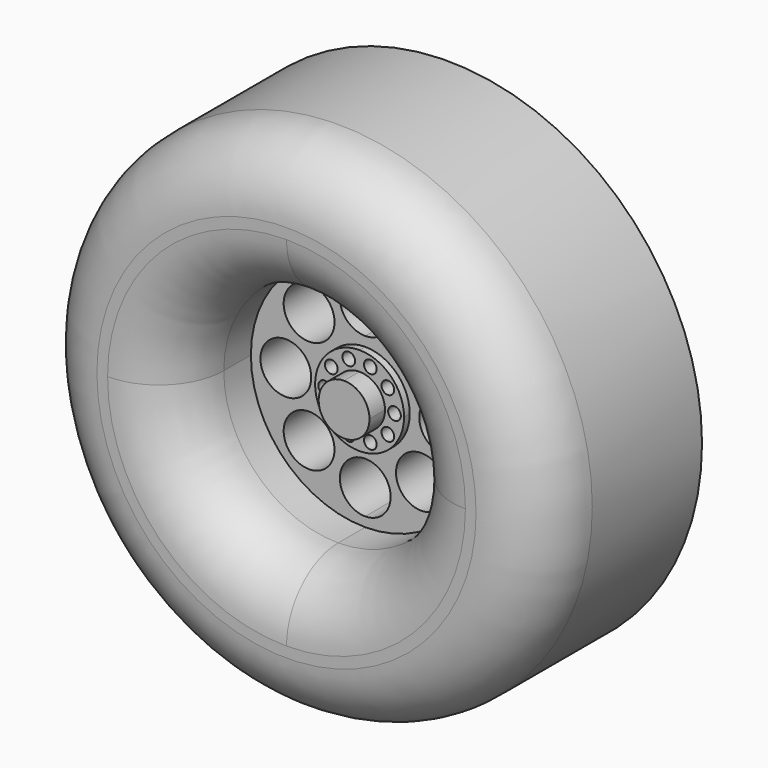
from build123d import *

# Parameters (mm, degrees)
F1_R     = 20
F2_DEPTH = 15.875
F3_DEPTH = 15.875
F1_R_2   = 2
F4_DEPTH = 8.128
F5_DEPTH = 10
F6_DEPTH = 13
F1_R_3   = 0.5
F7_DEPTH = 8.6868
F8_DEPTH = 10.2108
F9_R     = 5.08


with BuildPart() as f2:
    # F1 (on face) → F2 (new body)
    with BuildSketch(Plane.XZ):
        Circle(F1_R)
        with BuildLine():
            ThreePointArc((0, 18), (12.7279220614, 12.7279220614), (18, 0))
            ThreePointArc((18, 0), (12.7279220614, -12.7279220614), (0, -18))
            ThreePointArc((0, -18), (-12.7279220614, -12.7279220614), (-18, 0))
            ThreePointArc((-18, 0), (-12.7279220614, 12.7279220614), (0, 18))
        make_face(mode=Mode.SUBTRACT)
    extrude(amount=F2_DEPTH)

    # F1 (on face) → F3 (join)
    with BuildSketch(Plane.XZ):
        with BuildLine():
            ThreePointArc((0, 9), (6.3639610307, 6.3639610307), (9, 0))
            Line((9, 0), (18, 0))
            ThreePointArc((18, 0), (12.7279220614, 12.7279220614), (0, 18))
            Line((0, 18), (0, 9))
        make_face()
        with BuildLine():
            Line((18, 0), (9, 0))
            ThreePointArc((9, 0), (6.3639610307, -6.3639610307), (0, -9))
            Line((0, -9), (0, -18))
            ThreePointArc((0, -18), (12.7279220614, -12.7279220614), (18, 0))
        make_face()
        with BuildLine():
            ThreePointArc((-9, 0), (-6.3639610307, 6.3639610307), (0, 9))
            Line((0, 9), (0, 18))
            ThreePointArc((0, 18), (-12.7279220614, 12.7279220614), (-18, 0))
            Line((-18, 0), (-9, 0))
        make_face()
        with BuildLine():
            Line((0, -18), (0, -9))
            ThreePointArc((0, -9), (-6.3639610307, -6.3639610307), (-9, 0))
            Line((-9, 0), (-18, 0))
            ThreePointArc((-18, 0), (-12.7279220614, -12.7279220614), (0, -18))
        make_face()
    extrude(amount=F3_DEPTH)

    # F1 (on face) → F4 (join)
    with BuildSketch(Plane.XZ):
        with BuildLine():
            ThreePointArc((-3.5, 0), (-2.4748737342, 2.4748737342), (0, 3.5))
            Line((0, 3.5), (0, 4.25))
            ThreePointArc((0, 4.25), (-2, 6.25), (0, 8.25))
            Line((0, 8.25), (0, 9))
            ThreePointArc((0, 9), (-6.3639610307, 6.3639610307), (-9, 0))
            Line((-9, 0), (-8.25, 0))
            ThreePointArc((-8.25, 0), (-6.25, 2), (-4.25, 0))
            Line((-4.25, 0), (-3.5, 0))
        make_face()
        with Locations((-4.4194173824, 4.4194173824)):
            Circle(F1_R_2, mode=Mode.SUBTRACT)
        with BuildLine():
            ThreePointArc((0, 3.5), (2.4748737342, 2.4748737342), (3.5, 0))
            Line((3.5, 0), (4.25, 0))
            ThreePointArc((4.25, 0), (6.25, 2), (8.25, 0))
            Line((8.25, 0), (9, 0))
            ThreePointArc((9, 0), (6.3639610307, 6.3639610307), (0, 9))
            Line((0, 9), (0, 8.25))
            ThreePointArc((0, 8.25), (1.4142135624, 7.6642135624), (2, 6.25))
            ThreePointArc((2, 6.25), (1.4142135624, 4.8357864376), (0, 4.25))
            Line((0, 4.25), (0, 3.5))
        make_face()
        with Locations((4.4194173824, 4.4194173824)):
            Circle(F1_R_2, mode=Mode.SUBTRACT)
        with BuildLine():
            Line((4.25, 0), (3.5, 0))
            ThreePointArc((3.5, 0), (2.4748737342, -2.4748737342), (0, -3.5))
            Line((0, -3.5), (0, -4.25))
            ThreePointArc((0, -4.25), (1.4142135624, -4.8357864376), (2, -6.25))
            ThreePointArc((2, -6.25), (1.4142135624, -7.6642135624), (0, -8.25))
            Line((0, -8.25), (0, -9))
            ThreePointArc((0, -9), (6.3639610307, -6.3639610307), (9, 0))
            Line((9, 0), (8.25, 0))
            ThreePointArc((8.25, 0), (6.25, -2), (4.25, 0))
        make_face()
        with Locations((4.4194173824, -4.4194173824)):
            Circle(F1_R_2, mode=Mode.SUBTRACT)
        with BuildLine():
            Line((0, -4.25), (0, -3.5))
            ThreePointArc((0, -3.5), (-2.4748737342, -2.4748737342), (-3.5, 0))
            Line((-3.5, 0), (-4.25, 0))
            ThreePointArc((-4.25, 0), (-6.25, -2), (-8.25, 0))
            Line((-8.25, 0), (-9, 0))
            ThreePointArc((-9, 0), (-6.3639610307, -6.3639610307), (0, -9))
            Line((0, -9), (0, -8.25))
            ThreePointArc((0, -8.25), (-2, -6.25), (0, -4.25))
        make_face()
        with Locations((-4.4194173824, -4.4194173824)):
            Circle(F1_R_2, mode=Mode.SUBTRACT)
    extrude(amount=F4_DEPTH)

    # F1 (on face) → F5 (cut)
    with BuildSketch(Plane.XZ):
        with BuildLine():
            Line((0, -4.25), (0, -3.5))
            ThreePointArc((0, -3.5), (-2.4748737342, -2.4748737342), (-3.5, 0))
            Line((-3.5, 0), (-4.25, 0))
            ThreePointArc((-4.25, 0), (-6.25, -2), (-8.25, 0))
            Line((-8.25, 0), (-9, 0))
            ThreePointArc((-9, 0), (-6.3639610307, -6.3639610307), (0, -9))
            Line((0, -9), (0, -8.25))
            ThreePointArc((0, -8.25), (-2, -6.25), (0, -4.25))
        make_face()
        with Locations((-4.4194173824, -4.4194173824)):
            Circle(F1_R_2, mode=Mode.SUBTRACT)
        with BuildLine():
            Line((4.25, 0), (3.5, 0))
            ThreePointArc((3.5, 0), (2.4748737342, -2.4748737342), (0, -3.5))
            Line((0, -3.5), (0, -4.25))
            ThreePointArc((0, -4.25), (1.4142135624, -4.8357864376), (2, -6.25))
            ThreePointArc((2, -6.25), (1.4142135624, -7.6642135624), (0, -8.25))
            Line((0, -8.25), (0, -9))
            ThreePointArc((0, -9), (6.3639610307, -6.3639610307), (9, 0))
            Line((9, 0), (8.25, 0))
            ThreePointArc((8.25, 0), (6.25, -2), (4.25, 0))
        make_face()
        with Locations((4.4194173824, -4.4194173824)):
            Circle(F1_R_2, mode=Mode.SUBTRACT)
        with BuildLine():
            ThreePointArc((0, 3.5), (2.4748737342, 2.4748737342), (3.5, 0))
            Line((3.5, 0), (4.25, 0))
            ThreePointArc((4.25, 0), (6.25, 2), (8.25, 0))
            Line((8.25, 0), (9, 0))
            ThreePointArc((9, 0), (6.3639610307, 6.3639610307), (0, 9))
            Line((0, 9), (0, 8.25))
            ThreePointArc((0, 8.25), (1.4142135624, 7.6642135624), (2, 6.25))
            ThreePointArc((2, 6.25), (1.4142135624, 4.8357864376), (0, 4.25))
            Line((0, 4.25), (0, 3.5))
        make_face()
        with Locations((4.4194173824, 4.4194173824)):
            Circle(F1_R_2, mode=Mode.SUBTRACT)
        with BuildLine():
            ThreePointArc((-3.5, 0), (-2.4748737342, 2.4748737342), (0, 3.5))
            Line((0, 3.5), (0, 4.25))
            ThreePointArc((0, 4.25), (-2, 6.25), (0, 8.25))
            Line((0, 8.25), (0, 9))
            ThreePointArc((0, 9), (-6.3639610307, 6.3639610307), (-9, 0))
            Line((-9, 0), (-8.25, 0))
            ThreePointArc((-8.25, 0), (-6.25, 2), (-4.25, 0))
            Line((-4.25, 0), (-3.5, 0))
        make_face()
        with Locations((-4.4194173824, 4.4194173824)):
            Circle(F1_R_2, mode=Mode.SUBTRACT)
    extrude(amount=-F5_DEPTH, mode=Mode.SUBTRACT)

    # F9
    f9_edges = [f2.edges().sort_by_distance(p)[0] for p in [
        (-20, -15.875, 0),
        (0, -15.875, 9),
    ]]
    fillet(f9_edges, radius=F9_R)


with BuildPart() as f6:
    # F1 (on face) → F6 (new body)
    with BuildSketch(Plane.XZ):
        with BuildLine():
            Line((0, 0), (0, -2))
            ThreePointArc((0, -2), (1.4142135624, -1.4142135624), (2, 0))
            Line((2, 0), (0, 0))
        make_face()
        with BuildLine():
            ThreePointArc((-2, 0), (-1.4142135624, -1.4142135624), (0, -2))
            Line((0, -2), (0, 0))
            Line((0, 0), (-2, 0))
        make_face()
        with BuildLine():
            Line((0, 0), (0, 2))
            ThreePointArc((0, 2), (-1.4142135624, 1.4142135624), (-2, 0))
            Line((-2, 0), (0, 0))
        make_face()
        with BuildLine():
            ThreePointArc((2, 0), (1.4142135624, 1.4142135624), (0, 2))
            Line((0, 2), (0, 0))
            Line((0, 0), (2, 0))
        make_face()
    extrude(amount=-F6_DEPTH)


with BuildPart() as f7:
    # F1 (on face) → F7 (new body)
    with BuildSketch(Plane.XZ):
        with BuildLine():
            Line((3.25, 0), (3.5, 0))
            ThreePointArc((3.5, 0), (2.4748737342, 2.4748737342), (0, 3.5))
            Line((0, 3.5), (0, 2))
            ThreePointArc((0, 2), (1.4142135624, 1.4142135624), (2, 0))
            Line((2, 0), (2.25, 0))
            ThreePointArc((2.25, 0), (2.75, 0.5), (3.25, 0))
        make_face()
        with Locations((2.2247967345, 1.6164094438)):
            Circle(F1_R_3, mode=Mode.SUBTRACT)
        with Locations((0.8497967345, 2.6154054198)):
            Circle(F1_R_3, mode=Mode.SUBTRACT)
        with BuildLine():
            Line((0, 2), (0, 3.5))
            ThreePointArc((0, 3.5), (-2.4748737342, 2.4748737342), (-3.5, 0))
            Line((-3.5, 0), (-3.25, 0))
            ThreePointArc((-3.25, 0), (-2.75, 0.5), (-2.25, 0))
            Line((-2.25, 0), (-2, 0))
            ThreePointArc((-2, 0), (-1.4142135624, 1.4142135624), (0, 2))
        make_face()
        with Locations((-2.2247967345, 1.6164094438)):
            Circle(F1_R_3, mode=Mode.SUBTRACT)
        with Locations((-0.8497967345, 2.6154054198)):
            Circle(F1_R_3, mode=Mode.SUBTRACT)
        with BuildLine():
            ThreePointArc((-3.5, 0), (-2.4748737342, -2.4748737342), (0, -3.5))
            Line((0, -3.5), (0, -2))
            ThreePointArc((0, -2), (-1.4142135624, -1.4142135624), (-2, 0))
            Line((-2, 0), (-2.25, 0))
            ThreePointArc((-2.25, 0), (-2.75, -0.5), (-3.25, 0))
            Line((-3.25, 0), (-3.5, 0))
        make_face()
        with Locations((-0.8497967345, -2.6154054198)):
            Circle(F1_R_3, mode=Mode.SUBTRACT)
        with Locations((-2.2247967345, -1.6164094438)):
            Circle(F1_R_3, mode=Mode.SUBTRACT)
        with BuildLine():
            ThreePointArc((0, -3.5), (2.4748737342, -2.4748737342), (3.5, 0))
            Line((3.5, 0), (3.25, 0))
            ThreePointArc((3.25, 0), (2.75, -0.5), (2.25, 0))
            Line((2.25, 0), (2, 0))
            ThreePointArc((2, 0), (1.4142135624, -1.4142135624), (0, -2))
            Line((0, -2), (0, -3.5))
        make_face()
        with Locations((0.8497967345, -2.6154054198)):
            Circle(F1_R_3, mode=Mode.SUBTRACT)
        with Locations((2.2247967345, -1.6164094438)):
            Circle(F1_R_3, mode=Mode.SUBTRACT)
    extrude(amount=F7_DEPTH)


with BuildPart() as f8:
    # F1 (on face) → F8 (new body)
    with BuildSketch(Plane.XZ):
        with BuildLine():
            ThreePointArc((-2, 0), (-1.4142135624, -1.4142135624), (0, -2))
            Line((0, -2), (0, 0))
            Line((0, 0), (-2, 0))
        make_face()
        with BuildLine():
            Line((0, 0), (0, 2))
            ThreePointArc((0, 2), (-1.4142135624, 1.4142135624), (-2, 0))
            Line((-2, 0), (0, 0))
        make_face()
        with BuildLine():
            ThreePointArc((2, 0), (1.4142135624, 1.4142135624), (0, 2))
            Line((0, 2), (0, 0))
            Line((0, 0), (2, 0))
        make_face()
        with BuildLine():
            Line((0, 0), (0, -2))
            ThreePointArc((0, -2), (1.4142135624, -1.4142135624), (2, 0))
            Line((2, 0), (0, 0))
        make_face()
    extrude(amount=F8_DEPTH)


solid = Compound([f2.part, f6.part, f7.part, f8.part])
